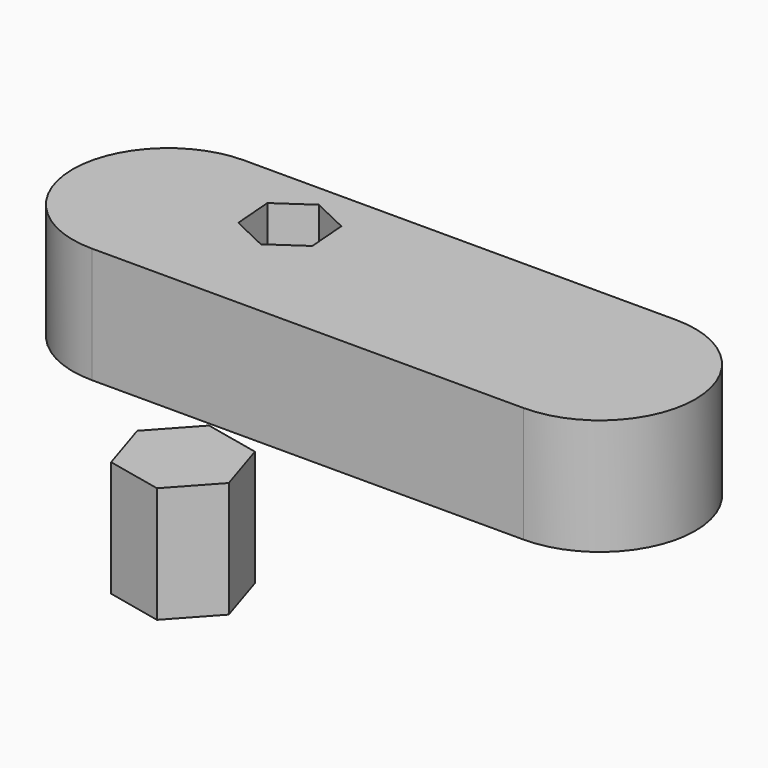
from build123d import *

# Parameters (mm, degrees)
EXTRUDE_DEPTH = 6


with BuildPart() as part:
    # Sketch → Extrude (new body)
    with BuildSketch(Plane.XY):
        with BuildLine():
            ThreePointArc((7.49734, -1.486697), (2.557467, -6.42657), (7.49734, -11.366443))
            Line((7.49734, -11.366443), (29.861489, -11.366443))
            ThreePointArc((29.861489, -11.366443), (34.801362, -6.42657), (29.861489, -1.486697))
            Line((7.49734, -1.486697), (29.861489, -1.486697))
        make_face()
        Polygon((14.323343, -5.618229), (14.158107, -3.535713), (12.271977, -2.637554), (10.551083, -3.821911), (10.716319, -5.904427), (12.602449, -6.802586), align=None, mode=Mode.SUBTRACT)
        Polygon((24.652168, -23.940664), (23.759593, -21.137257), (20.885484, -20.508546), (18.90395, -22.683242), (19.796525, -25.486649), (22.670634, -26.11536), align=None)
    extrude(amount=EXTRUDE_DEPTH)


solid = part.part
